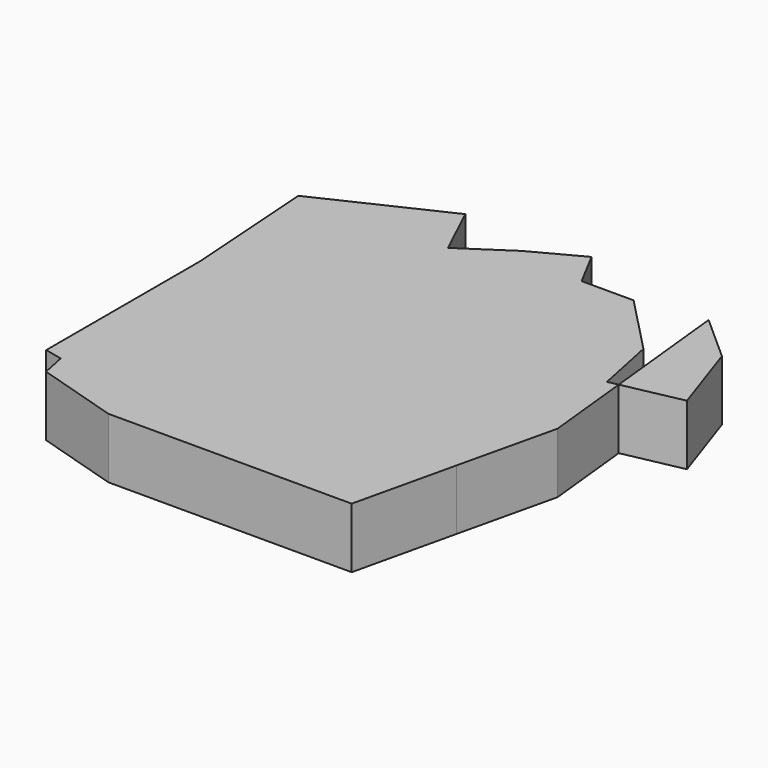
from build123d import *

# Parameters (mm, degrees)
F1_DEPTH = 25.4
F3_DEPTH = 25.4


with BuildPart() as f1:
    # F0 (on Top) → F1 (new body)
    with BuildSketch(Plane.XY):
        with BuildLine():
            ThreePointArc((78.2343375317, -38.8875417411), (78.048917721, -35.093966718), (77.4944259328, -31.3365565967))
            ThreePointArc((77.4944259328, -31.3365565967), (10.6262096015, -12.6381966062), (35.2216652385, -77.5693184483))
            ThreePointArc((35.2216652385, -77.5693184483), (65.3461180523, -67.8114497889), (78.2343375317, -38.8875417411))
        make_face()
    extrude(amount=F1_DEPTH)


with BuildPart() as f1b:
    # F0 (on Top) → F1, piece 2 (new body)
    with BuildSketch(Plane.XY):
        with BuildLine():
            ThreePointArc((-6.2524450904, -36.2056419253), (-37.4752368875, -2.8953557766), (-72.7337433977, -31.9001072768))
            Line((-72.7337433977, -31.9001072768), (-72.0729454344, -44.0699552738))
            ThreePointArc((-72.0729454344, -44.0699552738), (-60.3632317439, -62.3679498344), (-39.872979752, -69.5848448014))
            ThreePointArc((-39.872979752, -69.5848448014), (-16.1144120599, -59.8937799673), (-6.2524450904, -36.2056419253))
        make_face()
    extrude(amount=F1_DEPTH)


with BuildPart() as f1c:
    # F0 (on Top) → F1, piece 3 (new body)
    with BuildSketch(Plane.XY):
        with BuildLine():
            ThreePointArc((-39.872979752, -0.1722453775), (-15.7886590754, 10.5635413936), (-5.9143486462, 35.0136868656))
            ThreePointArc((-5.9143486462, 35.0136868656), (-15.812898711, 59.4889231298), (-39.9427123553, 70.2020261848))
            ThreePointArc((-39.9427123553, 70.2020261848), (-65.9081737617, 60.0192735106), (-76.3198448883, 34.1447543379))
            Line((-76.3198448883, 34.1447543379), (-76.206997413, 32.0664540136))
            ThreePointArc((-76.206997413, 32.0664540136), (-64.4898773463, 8.6778789249), (-39.872979752, -0.1722453775))
        make_face()
    extrude(amount=F1_DEPTH)


with BuildPart() as f1d:
    # F0 (on Top) → F1, piece 4 (new body)
    with BuildSketch(Plane.XY):
        with BuildLine():
            Line((37.6095230227, 74.5998945164), (29.8485713548, 74.1597828497))
            ThreePointArc((29.8485713548, 74.1597828497), (-0.1462480838, 35.2717518042), (36.4667453689, 2.5386361233))
            Line((36.4667453689, 2.5386361233), (37.6095230227, 2.579217024))
            ThreePointArc((37.6095230227, 2.579217024), (61.678058159, 13.5225465108), (71.8107426066, 37.9434299868))
            ThreePointArc((71.8107426066, 37.9434299868), (71.8150846811, 38.2664799099), (71.816532078, 38.5895557702))
            ThreePointArc((71.816532078, 38.5895557702), (61.9016162696, 63.4233229286), (37.6095230227, 74.5998945164))
        make_face()
    extrude(amount=F1_DEPTH)


with BuildPart() as f3:
    # F2 (on Top) → F3 (new body)
    with BuildSketch(Plane.XY):
        Polygon((81.2444016337, 91.4750024676), (86.9348665273, 37.0712211168), (111.6003593864, 42.1394729282), (100.734770298, 74.1108506918), align=None)
    extrude(amount=F3_DEPTH)


with BuildPart() as f3b:
    # F2 (on Top) → F3, piece 2 (new body)
    with BuildSketch(Plane.XY):
        Polygon((-75.3873363137, -61.2586587667), (-67.9455606753, -62.9596359278), (-65.8193379641, -73.3072534204), (-31.0910325497, -83.9383676648), (71.3220313191, -83.9383676648), (81.2444016337, -41.0595424473), (90.8123999834, 0), (86.9348665273, 37.0712211168), (82.6618820429, 36.1932106316), (77.3463249207, 62.0622560382), (53.2491393387, 86.9824013656), (31.4004077564, 86.9824013656), (23.1276452541, 102.4604812264), (2.5741581339, 91.4750024676), (-17.712602534, 78.0069069132), (-28.2560698688, 100.3342568874), (-79.2854130268, 76.2370750308), (-75.3873363137, 20.2465429902), align=None)
    extrude(amount=F3_DEPTH)


solid = Compound([f1.part, f1b.part, f1c.part, f1d.part, f3.part, f3b.part])
